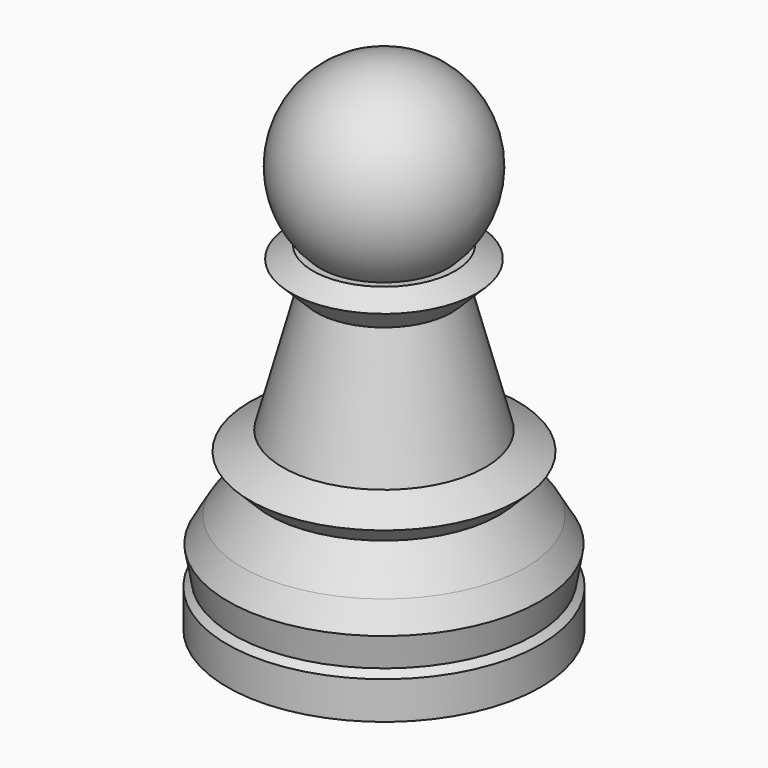
from build123d import *

# Parameters (mm, degrees)
F0_R      = 12.5
F1_DEPTH  = 3
F1_FACE_R = 12.5
F2_DEPTH  = 0.5
F2_TAPER  = 45
F2_FACE_R = 12
F3_DEPTH  = 2.5
F3_TAPER  = -10
F3_FACE_R = 12.4408174518
F4_DEPTH  = 2
F4_TAPER  = 30
F4_FACE_R = 11.2861169134
F5_DEPTH  = 3
F5_TAPER  = 35
F5_FACE_R = 9.1854942988
F6_DEPTH  = 1.5
F6_TAPER  = -45
F6_FACE_R = 10.6854942988
F7_DEPTH  = 1.5
F7_TAPER  = 60
F7_FACE_R = 8.0874180874
F8_DEPTH  = 10
F8_TAPER  = 15
F8_FACE_R = 5.4079261631
F9_DEPTH  = 2
F9_TAPER  = -45
F9_FACE_R = 7.4079261631
F10_DEPTH = 1
F10_TAPER = 60


with BuildPart() as f1:
    # F0 (on Top) → F1 (new body)
    with BuildSketch(Plane.XY):
        Circle(F0_R)
    extrude(amount=F1_DEPTH)

    # F1_face (on face) → F2 (join)
    with BuildSketch(Plane.XY.offset(3)):
        Circle(F1_FACE_R)
    extrude(amount=F2_DEPTH, taper=F2_TAPER)

    # F2_face (on face) → F3 (join)
    with BuildSketch(Plane.XY.offset(3.5)):
        Circle(F2_FACE_R)
    extrude(amount=F3_DEPTH, taper=F3_TAPER)

    # F3_face (on face) → F4 (join)
    with BuildSketch(Plane.XY.offset(6)):
        Circle(F3_FACE_R)
    extrude(amount=F4_DEPTH, taper=F4_TAPER)

    # F4_face (on face) → F5 (join)
    with BuildSketch(Plane.XY.offset(8)):
        Circle(F4_FACE_R)
    extrude(amount=F5_DEPTH, taper=F5_TAPER)

    # F5_face (on face) → F6 (join)
    with BuildSketch(Plane.XY.offset(11)):
        Circle(F5_FACE_R)
    extrude(amount=F6_DEPTH, taper=F6_TAPER)

    # F6_face (on face) → F7 (join)
    with BuildSketch(Plane.XY.offset(12.5)):
        Circle(F6_FACE_R)
    extrude(amount=F7_DEPTH, taper=F7_TAPER)

    # F7_face (on face) → F8 (join)
    with BuildSketch(Plane.XY.offset(14)):
        Circle(F7_FACE_R)
    extrude(amount=F8_DEPTH, taper=F8_TAPER)

    # F8_face (on face) → F9 (join)
    with BuildSketch(Plane.XY.offset(24)):
        Circle(F8_FACE_R)
    extrude(amount=F9_DEPTH, taper=F9_TAPER)

    # F9_face (on face) → F10 (join)
    with BuildSketch(Plane.XY.offset(26)):
        Circle(F9_FACE_R)
    extrude(amount=F10_DEPTH, taper=F10_TAPER)

    # F11 (on Front) → F12 (revolve)
    with BuildSketch(Plane.XZ):
        with BuildLine():
            Line((0, 32.5), (0, 25))
            ThreePointArc((0, 25), (5.3033008589, 27.1966991411), (7.5, 32.5))
            ThreePointArc((7.5, 32.5), (5.3033008589, 37.8033008589), (0, 40))
            Line((0, 40), (0, 32.5))
        make_face()
    revolve(axis=Axis((0, 0, 42.9121503979), (0, 0, 1)))


solid = f1.part
